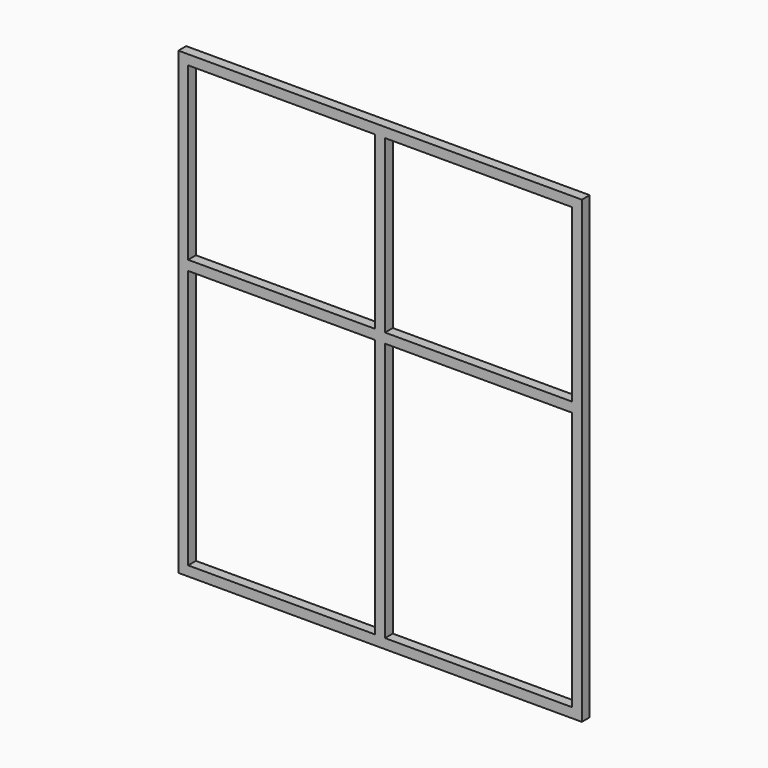
from build123d import *

# Parameters (mm, degrees)
F0_W     = 1650
F0_H     = 1880
F0_W_2   = 765
F0_H_2   = 1060
F0_H_3   = 700
F1_DEPTH = 20


with BuildPart() as f1:
    # F0 (on Front) → F1 (new body, symmetric)
    with BuildSketch(Plane.XZ):
        Rectangle(F0_W, F0_H)
        with Locations((-402.5, -370)):
            Rectangle(F0_W_2, F0_H_2, mode=Mode.SUBTRACT)
        with Locations((402.5, -370)):
            Rectangle(F0_W_2, F0_H_2, mode=Mode.SUBTRACT)
        with Locations((-402.5, 550)):
            Rectangle(F0_W_2, F0_H_3, mode=Mode.SUBTRACT)
        with Locations((402.5, 550)):
            Rectangle(F0_W_2, F0_H_3, mode=Mode.SUBTRACT)
    extrude(amount=F1_DEPTH, both=True)


solid = f1.part
